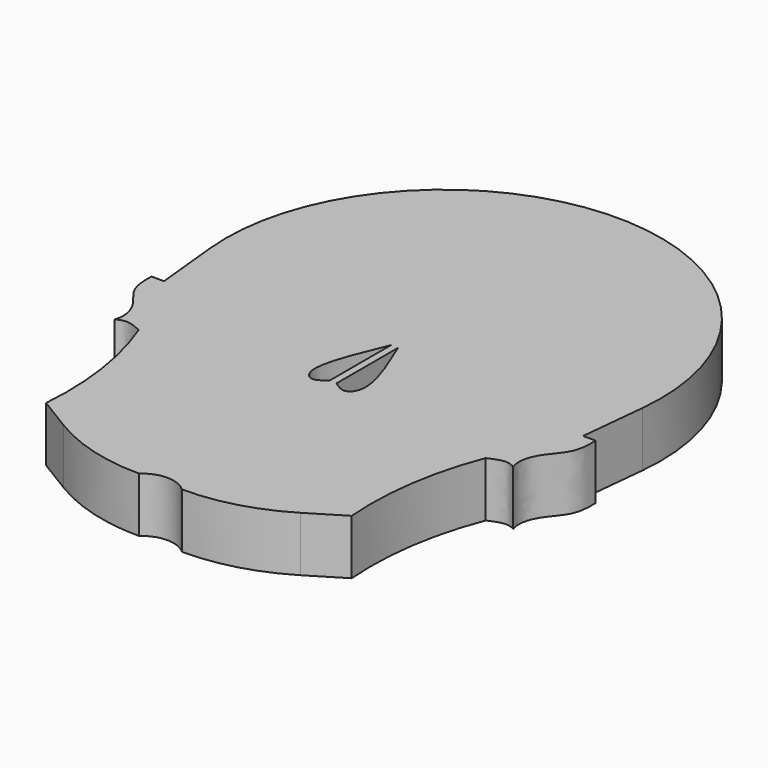
from build123d import *

# Parameters (mm, degrees)
F1_DEPTH = 6.35


with BuildPart() as f1:
    # F0 (on Top) → F1 (new body)
    with BuildSketch(Plane.XY):
        with BuildLine():
            Line((24.2018485624, 20.3591111567), (24.9729026109, 27.94))
            ThreePointArc((24.9729026109, 27.94), (0, 55.5817422665), (-24.9729026109, 27.94))
            Line((-24.9729026109, 27.94), (-24.2018485624, 20.3591111567))
            Line((-24.2018485624, 20.3591111567), (-25.6508905441, 20.3591111567))
            add(Edge.make_bspline(
                [(-25.6508905441, 20.3591111567), (-25.7100819344, 19.245122657), (-25.5568868283, 17.2466762377), (-23.3903728125, 15.2247357766), (-22.5900660073, 13.0258495468), (-23.0162087828, 11.749968864)],
                knots=[0, 0, 0, 0, 0.3296548024, 0.6488899473, 1, 1, 1, 1], degree=3))
            add(Edge.make_bspline(
                [(-23.0162087828, 11.749968864), (-22.5922647679, 11.9626704707), (-21.9364162676, 12.2917234231), (-20.5702119014, 11.7345602596), (-20.0368468234, 11.4999563751)],
                knots=[0, 0, 0, 0, 0.1860394682, 0.2878061771, 0.2878061771, 0.2878061771, 0.2878061771], degree=3))
            ThreePointArc((-20.0368468234, 11.4999563751), (-17.9210515485, 3.451912359), (-17.6520285488, -4.8652523476))
            Line((-17.6520285488, -4.8652523476), (-13.6837158352, -7.2798500769))
            ThreePointArc((-13.6837158352, -7.2798500769), (-8.2988226788, -9.6146084334), (-2.4822503328, -10.3992465883))
            ThreePointArc((-2.4822503328, -10.3992465883), (0, -9.4350617624), (2.4822503328, -10.3992465883))
            ThreePointArc((2.4822503328, -10.3992465883), (8.2988226788, -9.6146084334), (13.6837158352, -7.2798500769))
            Line((13.6837158352, -7.2798500769), (17.6520285488, -4.8652523476))
            ThreePointArc((17.6520285488, -4.8652523476), (17.9210515485, 3.451912359), (20.0368468234, 11.4999563751))
            add(Edge.make_bspline(
                [(23.0162087828, 11.749968864), (22.5922647679, 11.9626704707), (21.9364162676, 12.2917234231), (20.5702119014, 11.7345602596), (20.0368468234, 11.4999563751)],
                knots=[0, 0, 0, 0, 0.1860394682, 0.2878061771, 0.2878061771, 0.2878061771, 0.2878061771], degree=3))
            add(Edge.make_bspline(
                [(25.6508905441, 20.3591111567), (25.7100819344, 19.245122657), (25.5568868283, 17.2466762377), (23.3903728125, 15.2247357766), (22.5900660073, 13.0258495468), (23.0162087828, 11.749968864)],
                knots=[0, 0, 0, 0, 0.3296548024, 0.6488899473, 1, 1, 1, 1], degree=3))
            Line((25.6508905441, 20.3591111567), (24.2018485624, 20.3591111567))
        make_face()
        with BuildLine():
            add(Edge.make_bspline(
                [(-0.4122409155, 23.3895890415), (-1.7789787377, 20.1261361936), (-3.7382840107, 15.4477697441), (-1.9614836925, 13.3948410227), (-0.9296890952, 14.1234184564), (-0.4122409155, 14.4888022915)],
                knots=[0, 0, 0, 0, 0.534833339, 0.7667174817, 1, 1, 1, 1], degree=3))
            Line((-0.4122409155, 23.3895890415), (-0.4122409155, 14.4888022915))
        make_face(mode=Mode.SUBTRACT)
        with BuildLine():
            Line((0.4122409155, 14.4888022915), (0.4122409155, 23.3895890415))
            add(Edge.make_bspline(
                [(0.4122409155, 23.3895890415), (1.7789787377, 20.1261361936), (3.7382840107, 15.4477697441), (1.9614836925, 13.3948410227), (0.9296890952, 14.1234184564), (0.4122409155, 14.4888022915)],
                knots=[0, 0, 0, 0, 0.534833339, 0.7667174817, 1, 1, 1, 1], degree=3))
        make_face(mode=Mode.SUBTRACT)
    extrude(amount=F1_DEPTH)


solid = f1.part
